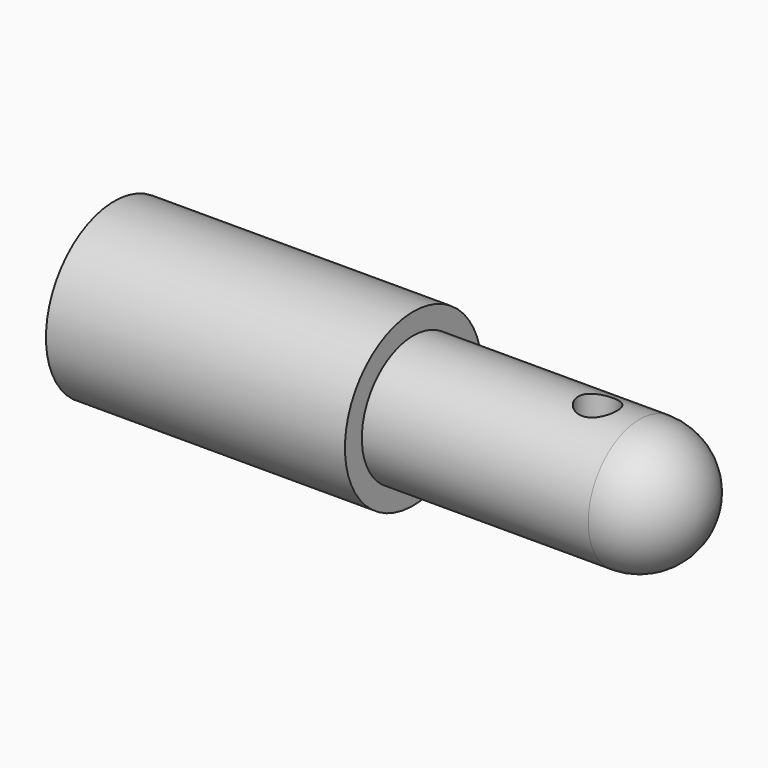
from build123d import *

# Parameters (mm, degrees)
F0_W          = 10.6036561653
F0_H          = 3.01
F1_R          = 0.9078539699
F3_DEPTH      = 25
F3_DEPTH_BACK = 25


with BuildPart() as f2:
    # F0 (on Top) → F2 (revolve)
    with BuildSketch(Plane.XY):
        with BuildLine():
            Line((-2.8650616772, 4), (-16.8650616772, 4))
            Line((-16.8650616772, 4), (-16.8650616772, 3.01))
            Line((-16.8650616772, 3.01), (-16.6393406689, 3.01))
            ThreePointArc((-16.6393406689, 3.01), (-16.7534254551, 2.9482213216), (-16.8650616772, 2.8821206599))
            Line((-16.8650616772, 2.8821206599), (-16.8650616772, 0))
            Line((-16.8650616772, 0), (-16.6393406689, 0))
            Line((-16.6393406689, 0), (-2.8650616772, 0))
            Line((-2.8650616772, 0), (-2.8650616772, 3.01))
            Line((-2.8650616772, 3.01), (-2.8650616772, 4))
        make_face()
        with BuildLine():
            Line((-16.6393406689, 3.01), (-16.8650616772, 3.01))
            Line((-16.8650616772, 3.01), (-16.8650616772, 2.8821206599))
            ThreePointArc((-16.8650616772, 2.8821206599), (-16.7534254551, 2.9482213216), (-16.6393406689, 3.01))
        make_face()
        with Locations((2.4367664055, 1.505)):
            Rectangle(F0_W, F0_H)
        with BuildLine():
            Line((-16.8650616772, 0), (-16.8650616772, 2.8821206599))
            ThreePointArc((-16.8650616772, 2.8821206599), (-18.0428631043, 1.6498253072), (-18.4716340154, 0))
            Line((-18.4716340154, 0), (-16.8650616772, 0))
        make_face()
        with BuildLine():
            ThreePointArc((10.7485944881, 0), (9.8669858995, 2.1283914114), (7.7385944881, 3.01))
            Line((7.7385944881, 3.01), (7.7385944881, 0))
            Line((7.7385944881, 0), (10.7485944881, 0))
        make_face()
    revolve(axis=Axis((50.5401151931, 0, 0), (1, 0, 0)))

    # F1 (on Top) → F3 (cut, two sides)
    with BuildSketch(Plane.XY) as f3_sk:
        with Locations((5.7655116543, 0)):
            Circle(F1_R)
    extrude(amount=-F3_DEPTH, mode=Mode.SUBTRACT)
    extrude(f3_sk.sketch, amount=F3_DEPTH_BACK, mode=Mode.SUBTRACT)


solid = f2.part
